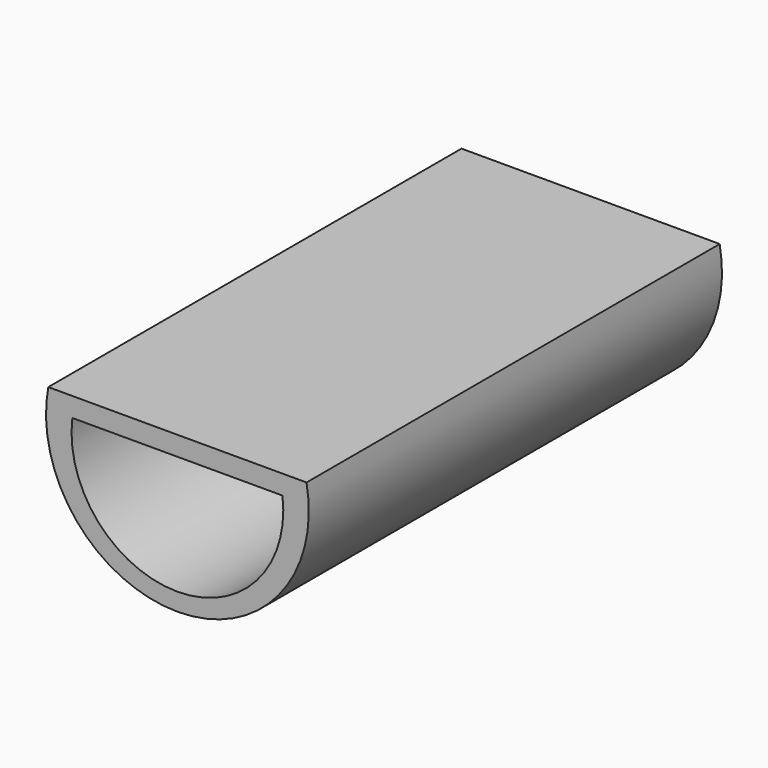
from build123d import *

# Parameters (mm, degrees)
F1_DEPTH = 25.4


with BuildPart() as f1:
    # F0 (on Front) → F1 (new body, symmetric)
    with BuildSketch(Plane.XZ):
        with BuildLine():
            Line((12.7, 3.175), (-12.7, 3.175))
            ThreePointArc((-12.7, 3.175), (0, -12.149384), (12.7, 3.175))
        make_face()
        with BuildLine():
            ThreePointArc((10.336271, 1.27), (0, -10.414), (-10.336271, 1.27))
            Line((-10.336271, 1.27), (10.336271, 1.27))
        make_face(mode=Mode.SUBTRACT)
    extrude(amount=F1_DEPTH, both=True)


solid = f1.part
